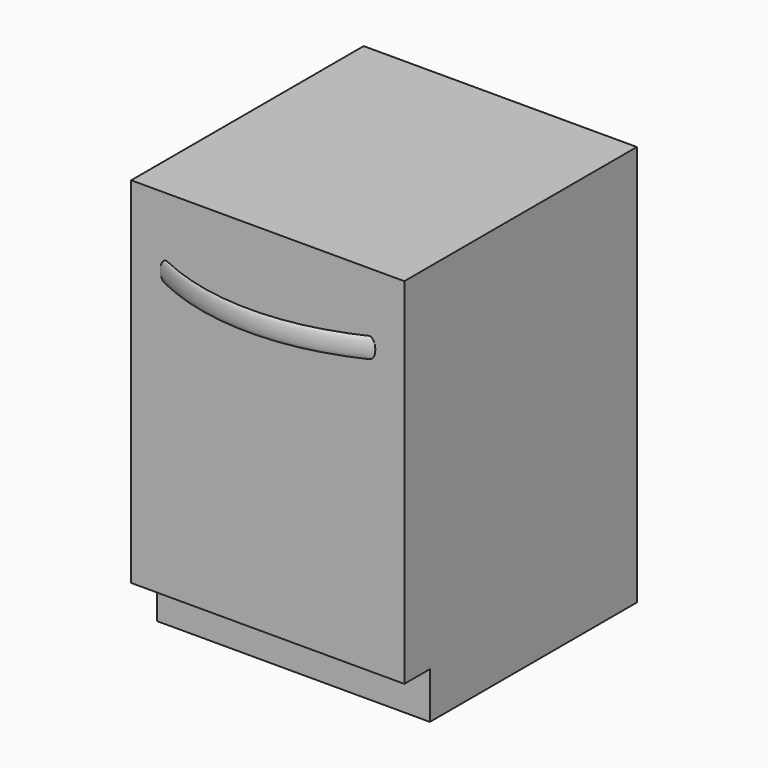
from build123d import *

# Parameters (mm, degrees)
F0_W     = 596.9
F0_H     = 635
F1_DEPTH = 876.3
F6_W     = 69.85
F6_H     = 101.6
F7_DEPTH = 596.9010001


with BuildPart() as f1:
    # F0 (on Top) → F1 (new body)
    with BuildSketch(Plane.XY):
        Rectangle(F0_W, F0_H)
    extrude(amount=-F1_DEPTH)

    # F5: sweep along a path in F3
    with BuildLine(Plane.XY.offset(-152.4)) as f5_path:
        ThreePointArc((-222.25, -317.5), (23.6275020738, -368.1472825465), (263.7350157491, -294.8719447302))
    # F4 (on face) → F5 (sweep)
    with BuildSketch(Plane.XZ.offset(317.5)):
        with BuildLine():
            add(Edge.make_bspline(
                [(-222.25, -130.175), (-244.2470452561, -130.175), (-233.2485226281, -163.5125), (-222.25, -196.85), (-211.2514773719, -163.5125), (-200.2529547439, -130.175), (-222.25, -130.175)],
                knots=[0, 0, 0, 2.0943951024, 2.0943951024, 4.1887902048, 4.1887902048, 6.2831853072, 6.2831853072, 6.2831853072], degree=2, weights=[1, 0.5, 1, 0.5, 1, 0.5, 1]))
        make_face()
    sweep(path=f5_path.line)

    # F6 (on face) → F7 (cut, through all)
    with BuildSketch(Plane.YZ.offset(298.45)):
        with Locations((-282.575, -825.5)):
            Rectangle(F6_W, F6_H)
    extrude(amount=-F7_DEPTH, mode=Mode.SUBTRACT)


solid = f1.part
